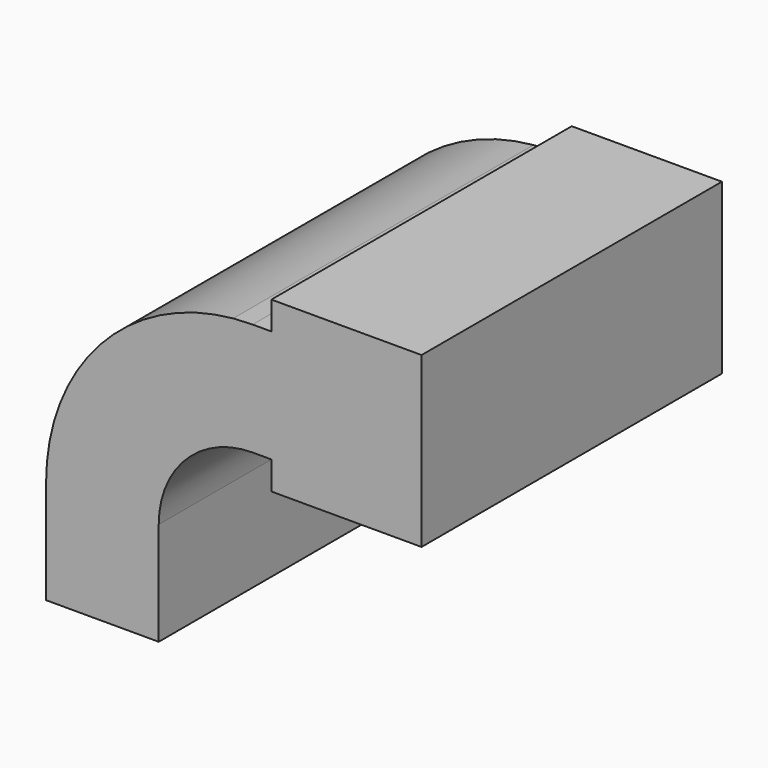
from build123d import *

# Parameters (mm, degrees)
F1_DEPTH = 25


with BuildPart() as f1:
    # F0 (on Front) → F1 (new body)
    with BuildSketch(Plane.XZ):
        Polygon((23.75, 24.38), (23.75, 16.88), (23.75, 15), (33.75, 15), (33.75, 26.25), (23.75, 26.25), align=None)
        with BuildLine():
            Line((8.75, 3.75), (16.25, 3.75))
            Line((16.25, 3.75), (16.25, 10.63))
            ThreePointArc((16.25, 10.63), (18.080583, 15.049417), (22.5, 16.88))
            Line((22.5, 16.88), (23.75, 16.88))
            Line((23.75, 16.88), (23.75, 24.38))
            Line((23.75, 24.38), (22.5, 24.38))
            add(Edge.make_bspline(
                [(21.204123, 24.318798), (21.637629, 24.341685), (22.069695, 24.362029), (22.5, 24.38)],
                knots=[42.719626, 42.719626, 42.719626, 42.719626, 43.899424, 43.899424, 43.899424, 43.899424], degree=3))
            ThreePointArc((21.204123, 24.318798), (12.329435, 19.883221), (8.75, 10.63))
            Line((8.75, 10.63), (8.75, 3.75))
        make_face()
    extrude(amount=F1_DEPTH)


solid = f1.part
